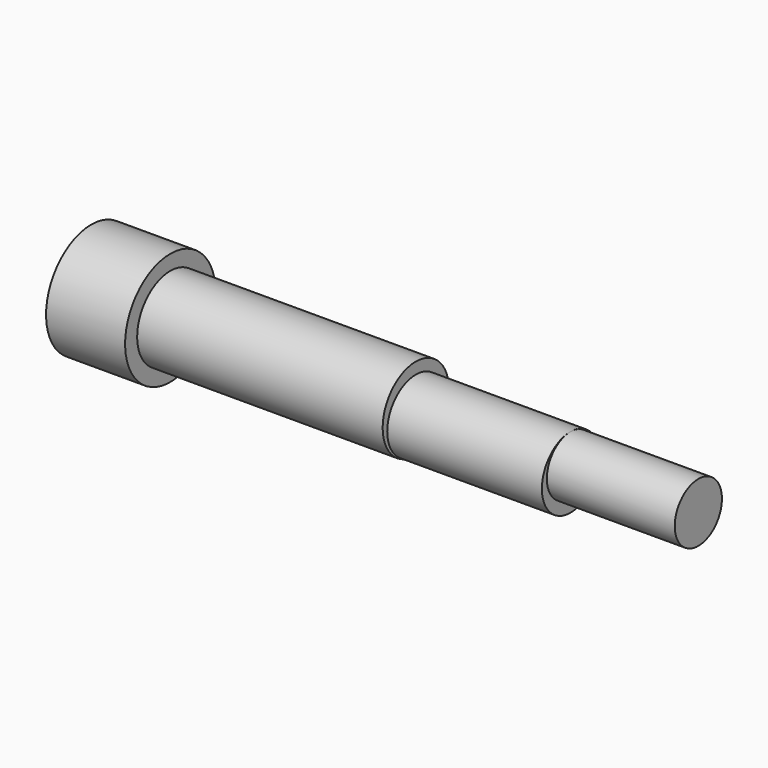
from build123d import *

# Parameters (mm, degrees)
F0_W     = 17.018
F0_H     = 3.9243
F6_DEPTH = 6.35


with BuildPart() as f1:
    # F0 (on Front) → F1 (revolve)
    with BuildSketch(Plane.XZ):
        Polygon((25.488018, 25.201135), (14.972418, 25.201135), (14.972418, 17.682735), (25.488018, 17.682735), (25.488018, 23.194535), align=None)
    revolve(axis=Axis((20.230218, 0, 17.682735), (1, 0, 0)))

    # F0 (on Front) → F2 (revolve)
    with BuildSketch(Plane.XZ):
        Polygon((25.488018, 23.194535), (25.488018, 17.682735), (58.152418, 17.682735), (58.152418, 21.670535), (58.152418, 23.194535), align=None)
    revolve(axis=Axis((41.820218, 0, 17.682735), (1, 0, 0)))

    # F0 (on Front) → F3 (revolve)
    with BuildSketch(Plane.XZ):
        Polygon((58.152418, 21.670535), (58.152418, 17.682735), (58.152418, 16.920735), (78.726418, 16.920735), (78.726418, 17.746235), (78.726418, 21.670535), align=None)
    revolve(axis=Axis((68.439418, 0, 16.920735), (1, 0, 0)))

    # F0 (on Front) → F4 (revolve)
    with BuildSketch(Plane.XZ):
        with Locations((87.235418, 19.708385)):
            Rectangle(F0_W, F0_H)
    revolve(axis=Axis((87.235418, 0, 17.746235), (1, 0, 0)))

    # F5 (on face) → F6 (cut)
    with BuildSketch(Plane(origin=(14.972418, 0, 0), x_dir=(0, -1, 0), z_dir=(-1, 0, 0))):
        Polygon((1.436831, 13.369142), (4.454097, 16.770271), (3.017266, 21.083864), (-1.436831, 21.996329), (-4.454097, 18.5952), (-3.017266, 14.281606), align=None)
    extrude(amount=-F6_DEPTH, mode=Mode.SUBTRACT)


solid = f1.part
